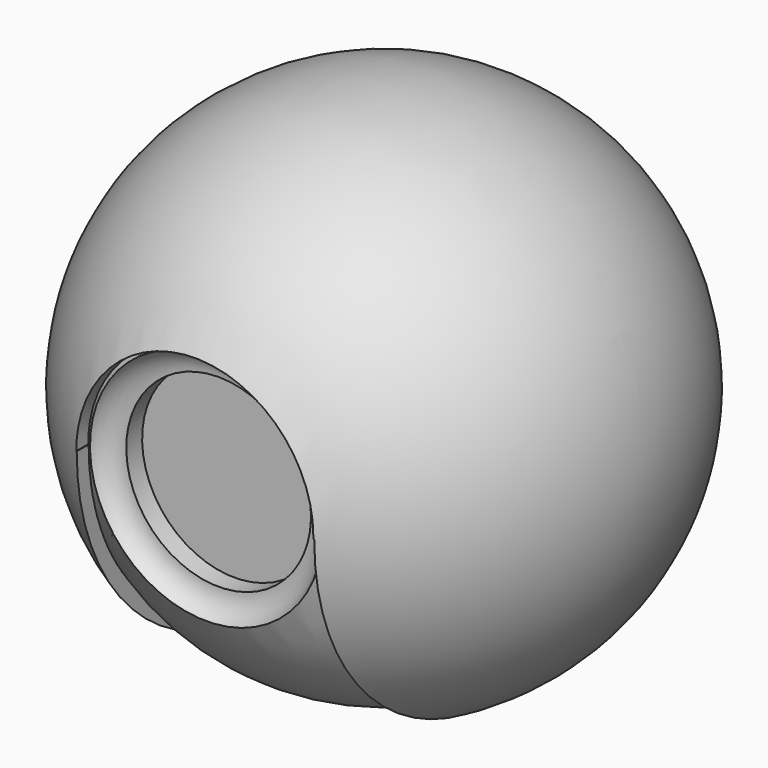
from build123d import *

# Parameters (mm, degrees)
F6_T      = -5
F7_DEPTH  = 200
F8_DEPTH  = 200
F11_DEPTH = 7.5


with BuildPart() as f5:
    # F2 (on Front) → F5 (revolve)
    with BuildSketch(Plane.XZ):
        with BuildLine():
            Line((95, 0), (100, 0))
            ThreePointArc((100, 0), (0, 100), (-100, 0))
            Line((-100, 0), (-95, 0))
            ThreePointArc((-95, 0), (0, 95), (95, 0))
        make_face()
        with BuildLine():
            Line((0, 0), (44.7722013338, 0))
            ThreePointArc((44.7722013338, 0), (44.7747311997, 0.275482354), (44.7755744989, 0.5509750335))
            ThreePointArc((44.7755744989, 0.5509750335), (-0.4999181806, 45.5501317344), (-45.2210523359, 0))
            Line((-45.2210523359, 0), (0, 0))
        make_face()
        with BuildLine():
            Line((44.7722013338, 0), (95, 0))
            ThreePointArc((95, 0), (0, 95), (-95, 0))
            Line((-95, 0), (-45.2210523359, 0))
            ThreePointArc((-45.2210523359, 0), (-0.4999181806, 45.5501317344), (44.7755744989, 0.5509750335))
            ThreePointArc((44.7755744989, 0.5509750335), (44.7747311997, 0.275482354), (44.7722013338, 0))
        make_face()
    revolve(axis=Axis((-50, 0, 0), (-1, 0, 0)))

    # F6 (hollow: no face is removed)
    offset(amount=F6_T, mode=Mode.SUBTRACT)

    # F2 (on Front) → F7 (cut)
    with BuildSketch(Plane.XZ):
        with BuildLine():
            Line((0, 0), (44.7722013338, 0))
            ThreePointArc((44.7722013338, 0), (44.7747311997, 0.275482354), (44.7755744989, 0.5509750335))
            ThreePointArc((44.7755744989, 0.5509750335), (-0.4999181806, 45.5501317344), (-45.2210523359, 0))
            Line((-45.2210523359, 0), (0, 0))
        make_face()
    extrude(amount=F7_DEPTH, mode=Mode.SUBTRACT)

    # F3 (on Top) → F8 (cut)
    with BuildSketch(Plane.XY):
        with BuildLine():
            ThreePointArc((-45, 0), (0, -45), (45, 0))
            ThreePointArc((45, 0), (0, 45), (-45, 0))
        make_face()
        with BuildLine():
            Line((45, -100), (45, 0))
            ThreePointArc((45, 0), (0, -45), (-45, 0))
            Line((-45, 0), (-45, -100))
            Line((-45, -100), (45, -100))
        make_face()
    extrude(amount=-F8_DEPTH, mode=Mode.SUBTRACT)


with BuildPart() as f9:
    # F2 (on Front) → F9 (revolve)
    with BuildSketch(Plane.XZ):
        with BuildLine():
            Line((44.7722013338, 0), (95, 0))
            ThreePointArc((95, 0), (0, 95), (-95, 0))
            Line((-95, 0), (-45.2210523359, 0))
            ThreePointArc((-45.2210523359, 0), (-0.4999181806, 45.5501317344), (44.7755744989, 0.5509750335))
            ThreePointArc((44.7755744989, 0.5509750335), (44.7747311997, 0.275482354), (44.7722013338, 0))
        make_face()
        with BuildLine():
            Line((0, 0), (44.7722013338, 0))
            ThreePointArc((44.7722013338, 0), (44.7747311997, 0.275482354), (44.7755744989, 0.5509750335))
            ThreePointArc((44.7755744989, 0.5509750335), (-0.4999181806, 45.5501317344), (-45.2210523359, 0))
            Line((-45.2210523359, 0), (0, 0))
        make_face()
    revolve(axis=Axis((50, 0, 0), (1, 0, 0)))

    # F4 (on Right) → F10 (revolve, cut)
    with BuildSketch(Plane.YZ):
        with BuildLine():
            ThreePointArc((-88.3176086633, 25), (-81.2465408514, 27.9289321881), (-78.3176086633, 35))
            ThreePointArc((-78.3176086633, 35), (-79.9008401522, 40.3998155368), (-84.1492102295, 44.0897994751))
            ThreePointArc((-84.1492102295, 44.0897994751), (-86.3530950133, 39.599785121), (-88.3176086633, 35))
            Line((-88.3176086633, 35), (-88.3176086633, 25))
        make_face()
        with BuildLine():
            ThreePointArc((-91.5074186354, 25.5223888906), (-89.9337597864, 25.1314613267), (-88.3176086633, 25))
            Line((-88.3176086633, 25), (-88.3176086633, 35))
            ThreePointArc((-88.3176086633, 35), (-90.0373055396, 30.3031947354), (-91.5074186354, 25.5223888906))
        make_face()
        with BuildLine():
            Line((-95, 0), (-88.3176086633, 0))
            Line((-88.3176086633, 0), (-88.3176086633, 25))
            ThreePointArc((-88.3176086633, 25), (-89.9337597864, 25.1314613267), (-91.5074186354, 25.5223888906))
            ThreePointArc((-91.5074186354, 25.5223888906), (-94.1228048094, 12.8801247982), (-95, 0))
        make_face()
        with BuildLine():
            Line((-88.3176086633, 0), (-78.3176086633, 0))
            Line((-78.3176086633, 0), (-78.3176086633, 35))
            ThreePointArc((-78.3176086633, 35), (-81.2465408514, 27.9289321881), (-88.3176086633, 25))
            Line((-88.3176086633, 25), (-88.3176086633, 0))
        make_face()
    revolve(axis=Axis((0, -47.5, 0), (0, -1, 0)), mode=Mode.SUBTRACT)

    # F11 (cut): a face of the model
    f11_faces = [f9.faces().sort_by_distance(p)[0] for p in [
        (0, -78.3176086633, 0),
    ]]
    extrude(f11_faces, amount=-F11_DEPTH, mode=Mode.SUBTRACT)


solid = Compound([f5.part, f9.part])
